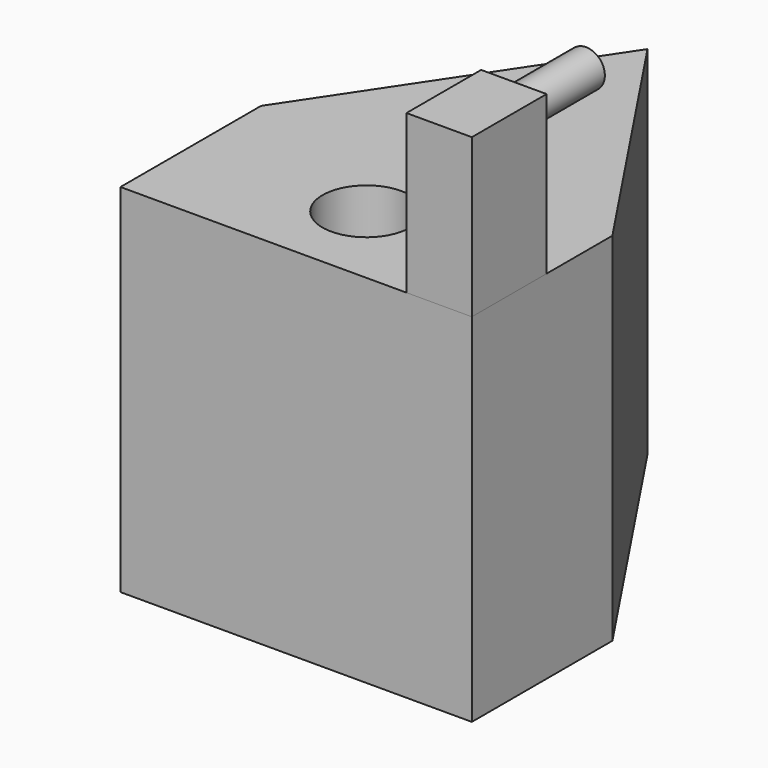
from build123d import *

# Parameters (mm, degrees)
F1_DEPTH = 51.562
F2_R     = 6.35
F3_DEPTH = 51.563
F4_W     = 9.453815
F4_H     = 13.504244
F5_DEPTH = 22.86
F6_R     = 2.708969
F7_DEPTH = 13.0556


with BuildPart() as f1:
    # F0 (on Top) → F1 (new body)
    with BuildSketch(Plane.XY):
        Polygon((0, 25.4), (0, 0), (50.8, 0), (50.8, 25.4), (25.4, 25.4), align=None)
        Polygon((25.4, 63.5), (0, 25.4), (25.4, 25.4), align=None)
        Polygon((25.4, 25.4), (50.8, 25.4), (25.4, 63.5), align=None)
    extrude(amount=F1_DEPTH)

    # F2 (on face) → F3 (cut, through all)
    with BuildSketch(Plane.XY.offset(51.562)):
        with Locations((25.4, 12.7)):
            Circle(F2_R)
    extrude(amount=-F3_DEPTH, mode=Mode.SUBTRACT)


with BuildPart() as f5:
    # F4 (on face) → F5 (new body)
    with BuildSketch(Plane.XY.offset(51.562)):
        with Locations((46.073093, 6.752122)):
            Rectangle(F4_W, F4_H)
    extrude(amount=F5_DEPTH)

    # F6 (on face) → F7 (join)
    with BuildSketch(Plane(origin=(0, 13.504244, 0), x_dir=(-1, 0, 0), z_dir=(0, 1, 0))):
        with Locations((-46.073092, 70.834755)):
            Circle(F6_R)
    extrude(amount=F7_DEPTH)


solid = Compound([f1.part, f5.part])
